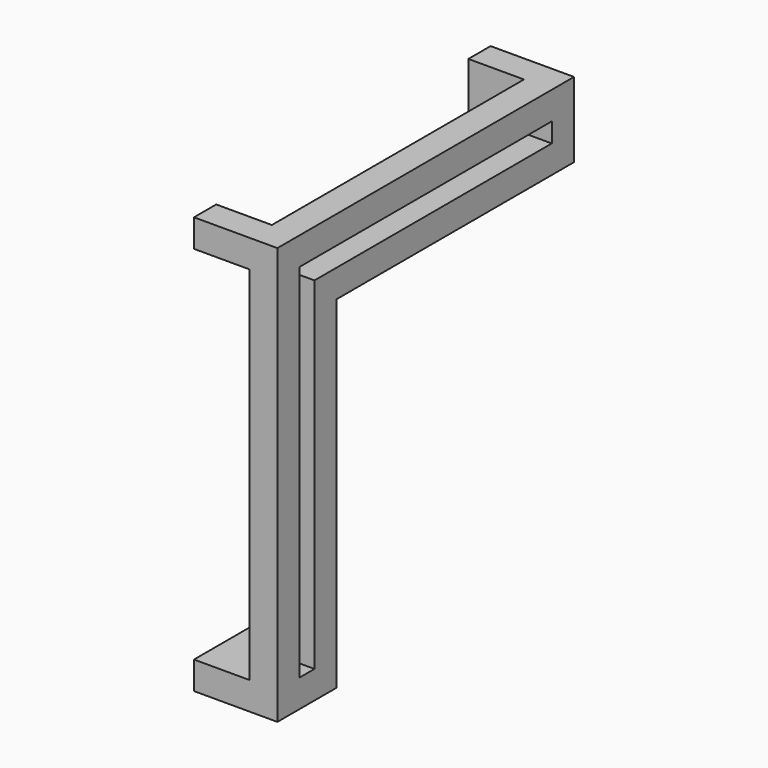
from build123d import *

# Parameters (mm, degrees)
F1_DEPTH = 22.86
F2_W     = 15.24
F2_H     = 119.38
F3_DEPTH = 106.68
F4_W     = 7.62
F4_H     = 7.62
F5_DEPTH = 15.24


with BuildPart() as f1:
    # F0 (on Right) → F1 (new body)
    with BuildSketch(Plane.YZ):
        Polygon((0, 0), (0, -114.3), (20.32, -114.3), (20.32, -20.574), (101.6, -20.574), (101.6, 0), (20.32, 0), align=None)
        Polygon((12.7, -106.68), (7.62, -106.68), (7.62, -7.62), (93.98, -7.62), (93.98, -12.954), (12.7, -12.954), align=None, mode=Mode.SUBTRACT)
    extrude(amount=F1_DEPTH)

    # F2 (on face) → F3 (cut)
    with BuildSketch(Plane.XY):
        with Locations((7.62, 34.29)):
            Rectangle(F2_W, F2_H)
    extrude(amount=-F3_DEPTH, mode=Mode.SUBTRACT)

    # F4 (on face) → F5 (join, through all)
    with BuildSketch(Plane(origin=(15.24, 0, 0), x_dir=(0, -1, 0), z_dir=(-1, 0, 0))):
        with Locations((-3.81, -3.81)):
            Rectangle(F4_W, F4_H)
    extrude(amount=F5_DEPTH)


solid = f1.part
